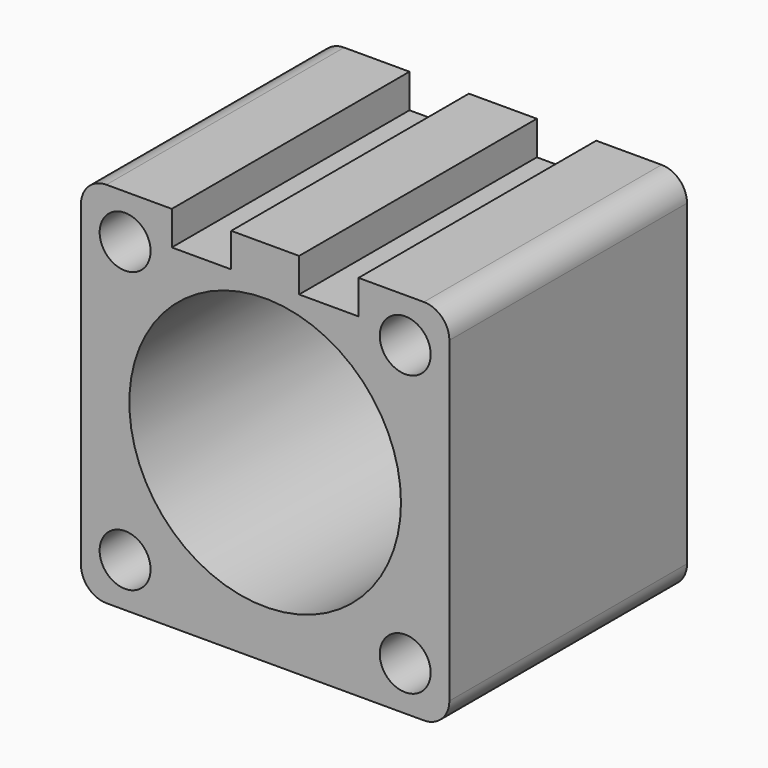
from build123d import *

# Parameters (mm, degrees)
F0_W     = 43.4
F0_H     = 43.4
F0_R     = 3
F0_R_2   = 16
F1_DEPTH = 17.5
F2_W     = 7
F2_H     = 35
F3_DEPTH = 4
F4_R     = 3


with BuildPart() as f1:
    # F0 (on Front) → F1 (new body, symmetric)
    with BuildSketch(Plane.XZ):
        Rectangle(F0_W, F0_H)
        with Locations((-16.5, -16.5)):
            Circle(F0_R, mode=Mode.SUBTRACT)
        with Locations((16.5, -16.5)):
            Circle(F0_R, mode=Mode.SUBTRACT)
        with Locations((-16.5, 16.5)):
            Circle(F0_R, mode=Mode.SUBTRACT)
        Circle(F0_R_2, mode=Mode.SUBTRACT)
        with Locations((16.5, 16.5)):
            Circle(F0_R, mode=Mode.SUBTRACT)
    extrude(amount=F1_DEPTH, both=True)

    # F2 (on face) → F3 (cut)
    with BuildSketch(Plane.XY.offset(21.7)):
        with Locations((-7.5, 0)):
            Rectangle(F2_W, F2_H)
        with Locations((7.5, 0)):
            Rectangle(F2_W, F2_H)
    extrude(amount=-F3_DEPTH, mode=Mode.SUBTRACT)

    # F4
    f4_edges = [f1.edges().sort_by_distance(p)[0] for p in [
        (-21.7, 0, 21.7),
        (21.7, 0, 21.7),
        (21.7, 0, -21.7),
        (-21.7, 0, -21.7),
    ]]
    fillet(f4_edges, radius=F4_R)


solid = f1.part
